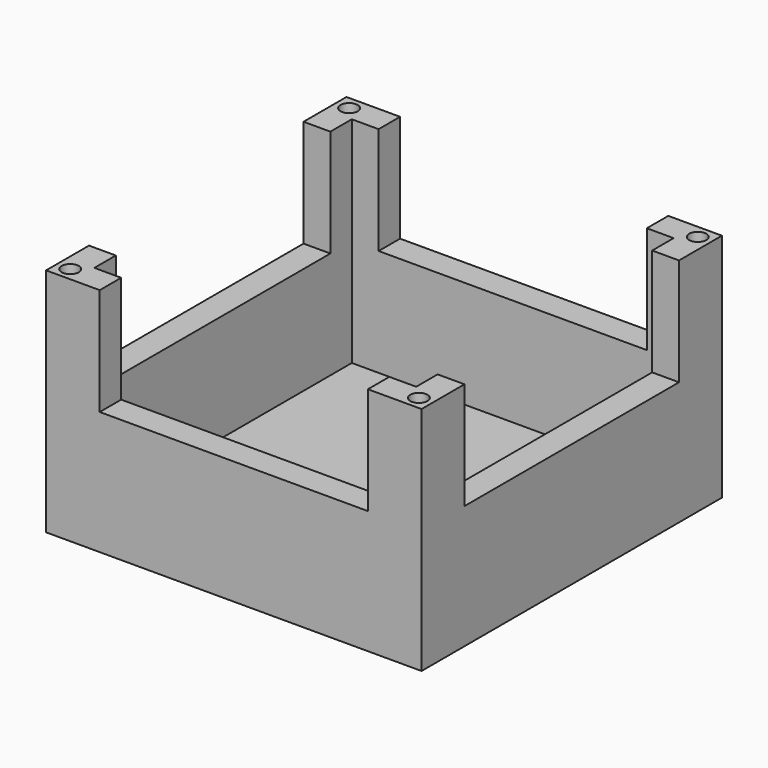
from build123d import *

# Parameters (mm, degrees)
F0_W      = 70
F0_H      = 70
F0_W_2    = 60
F0_H_2    = 60
F1_DEPTH  = 3
F2_W      = 70
F2_H      = 70
F2_W_2    = 60
F2_H_2    = 60
F3_DEPTH  = 40
F4_W      = 50
F4_H      = 20
F5_DEPTH  = 71
F6_W      = 50
F6_H      = 20
F7_DEPTH  = 70
F11_R     = 1.6
F12_DEPTH = 25


with BuildPart() as f1:
    # F0 (on Top) → F1 (new body)
    with BuildSketch(Plane.XY):
        Rectangle(F0_W, F0_H)
        Rectangle(F0_W_2, F0_H_2, mode=Mode.SUBTRACT)
        Rectangle(F0_W_2, F0_H_2)
    extrude(amount=F1_DEPTH)

    # F2 (on face) → F3 (join)
    with BuildSketch(Plane.XY.offset(3)):
        Rectangle(F2_W, F2_H)
        Rectangle(F2_W_2, F2_H_2, mode=Mode.SUBTRACT)
    extrude(amount=F3_DEPTH)

    # F4 (on face) → F5 (cut)
    with BuildSketch(Plane.XZ.offset(35)):
        with Locations((0, 33)):
            Rectangle(F4_W, F4_H)
    extrude(amount=-F5_DEPTH, mode=Mode.SUBTRACT)

    # F6 (on face) → F7 (cut)
    with BuildSketch(Plane.YZ.offset(35)):
        with Locations((0, 33)):
            Rectangle(F6_W, F6_H)
    extrude(amount=-F7_DEPTH, mode=Mode.SUBTRACT)

    # F11 (on offset) → F12 (cut)
    with BuildSketch(Plane.XY.offset(45)):
        with Locations((32.5, 32.5)):
            Circle(F11_R)
        with Locations((32.5, -32.5)):
            Circle(F11_R)
        with Locations((-32.5, 32.5)):
            Circle(F11_R)
        with Locations((-32.5, -32.5)):
            Circle(F11_R)
    extrude(amount=-F12_DEPTH, mode=Mode.SUBTRACT)


solid = f1.part
